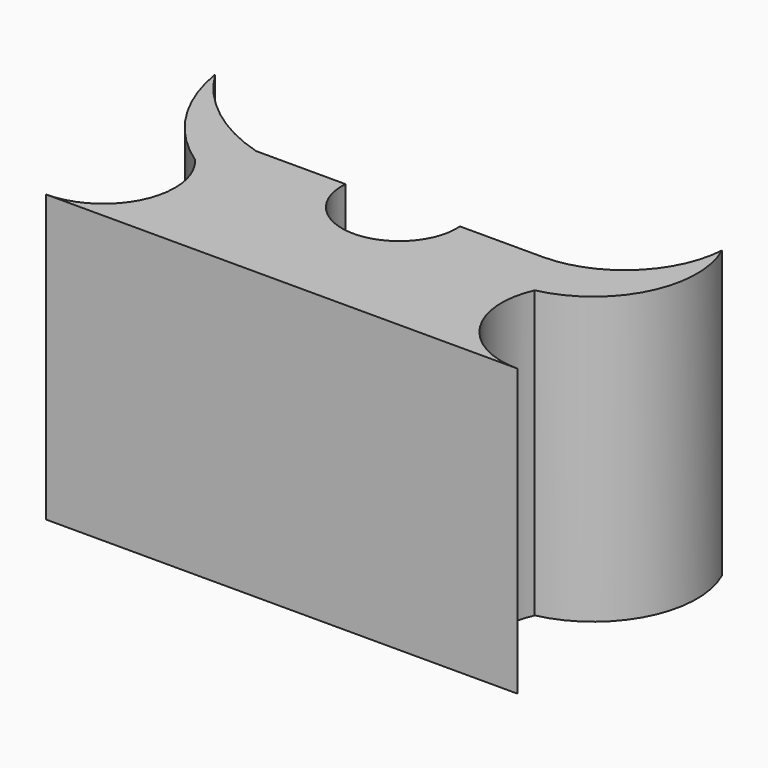
from build123d import *

# Parameters (mm, degrees)
F1_DEPTH = 49.9999


with BuildPart() as f1:
    # F0 (on Top) → F1 (new body)
    with BuildSketch(Plane.XY):
        with BuildLine():
            ThreePointArc((-33.665815, 20.741972), (-31.690377, 7.338264), (-43.079478, 0))
            Line((-43.079478, 0), (-24.252152, 0))
            Line((-24.252152, 0), (39.250193, 0))
            ThreePointArc((39.250193, 0), (27.63624, 6.333119), (26.670001, 19.526249))
            ThreePointArc((26.670001, 19.526249), (38.969207, 29.094689), (39.250193, 44.675015))
            ThreePointArc((39.250193, 44.675015), (33.582753, 32.751227), (21.301444, 27.90705))
            Line((21.301444, 27.90705), (6.903135, 27.90705))
            ThreePointArc((6.903135, 27.90705), (-3.09687, 17.145785), (-13.096876, 27.90705))
            Line((-13.096876, 27.90705), (-28.698456, 27.90705))
            ThreePointArc((-28.698456, 27.90705), (-39.287504, 33.288324), (-47.227875, 42.122154))
            ThreePointArc((-47.227875, 42.122154), (-42.649199, 30.035047), (-33.665815, 20.741972))
        make_face()
    extrude(amount=F1_DEPTH)


solid = f1.part
